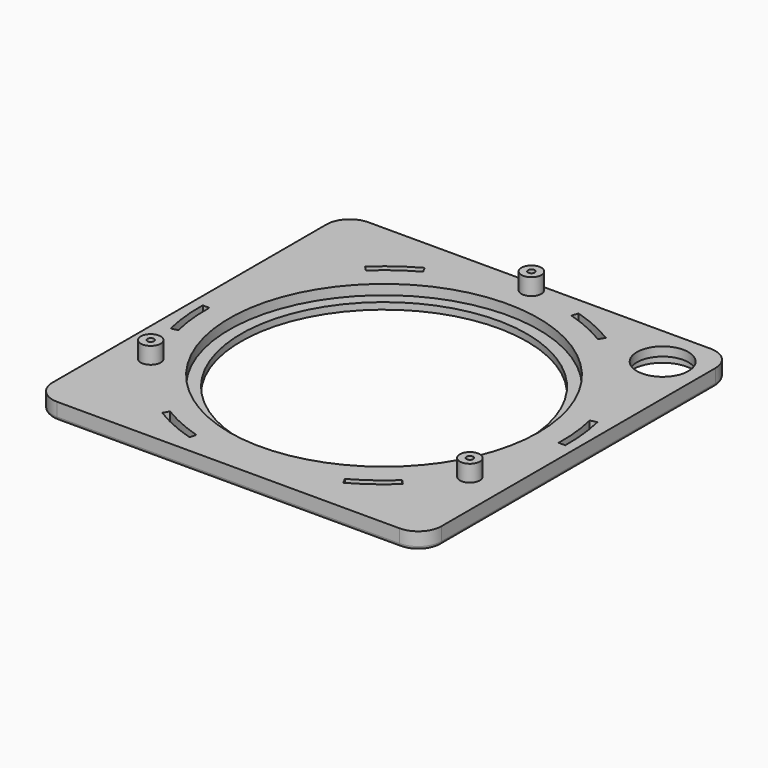
from build123d import *

# Parameters (mm, degrees)
F1_DEPTH  = 5
F2_R      = 43
F3_DEPTH  = 5.001
F4_R      = 46.5
F5_DEPTH  = 3
F7_R      = 3
F7_R_2    = 1
F8_DEPTH  = 5
F10_DEPTH = 5.001
F14_R     = 1
F15_R     = 9
F16_DEPTH = 2.3
F17_R     = 7.75
F18_DEPTH = 7.701


with BuildPart() as f1:
    # F0 (on Top) → F1 (new body)
    with BuildSketch(Plane.XY):
        with BuildLine():
            ThreePointArc((58.5, 51.5), (56.4497474683, 56.4497474683), (51.5, 58.5))
            Line((51.5, 58.5), (-51.5, 58.5))
            ThreePointArc((-51.5, 58.5), (-56.4497474683, 56.4497474683), (-58.5, 51.5))
            Line((-58.5, 51.5), (-58.5, -51.5))
            ThreePointArc((-58.5, -51.5), (-56.4497474683, -56.4497474683), (-51.5, -58.5))
            Line((-51.5, -58.5), (51.5, -58.5))
            ThreePointArc((51.5, -58.5), (56.4497474683, -56.4497474683), (58.5, -51.5))
            Line((58.5, -51.5), (58.5, 51.5))
        make_face()
    extrude(amount=F1_DEPTH)

    # F2 (on face) → F3 (cut, through all)
    with BuildSketch(Plane.XY.offset(5)):
        Circle(F2_R)
    extrude(amount=-F3_DEPTH, mode=Mode.SUBTRACT)

    # F4 (on face) → F5 (cut)
    with BuildSketch(Plane.XY.offset(5)):
        Circle(F4_R)
    extrude(amount=-F5_DEPTH, mode=Mode.SUBTRACT)

    # F7 (on face) → F8 (join)
    with BuildSketch(Plane.XY.offset(5)):
        with Locations((0, 55.426)):
            Circle(F7_R)
        with Locations((0, 55.426)):
            Circle(F7_R_2, mode=Mode.SUBTRACT)
        with Locations((-48.0003240302, -27.713)):
            Circle(F7_R)
        with Locations((-48.0003240302, -27.713)):
            Circle(F7_R_2, mode=Mode.SUBTRACT)
        with Locations((48.0003240302, -27.713)):
            Circle(F7_R)
        with Locations((48.0003240302, -27.713)):
            Circle(F7_R_2, mode=Mode.SUBTRACT)
    extrude(amount=F8_DEPTH)

    # F9 (on face) → F10 (cut, through all)
    with BuildSketch(Plane.XY.offset(5)):
        with BuildLine():
            Line((27.7520475957, 45.7391938522), (28.7895073189, 47.4490702579))
            ThreePointArc((28.7895073189, 47.4490702579), (22.5750330476, 50.7012611569), (16, 53.1436731888))
            Line((16, 53.1436731888), (15.4234234234, 51.2285858667))
            ThreePointArc((15.4234234234, 51.2285858667), (21.7615183432, 48.8741886828), (27.7520475957, 45.7391938522))
        make_face()
        with BuildLine():
            Line((-25.7352800268, 46.903575151), (-26.6973465699, 48.6569798295))
            ThreePointArc((-26.6973465699, 48.6569798295), (-32.621063642, 44.901182689), (-38.0237710319, 40.428243055))
            Line((-38.0237710319, 40.428243055), (-36.6535450488, 38.9713694314))
            ThreePointArc((-36.6535450488, 38.9713694314), (-31.445529817, 43.2831220515), (-25.7352800268, 46.903575151))
        make_face()
        with BuildLine():
            Line((-53.4873276224, 1.1643812988), (-55.4868538887, 1.2079095716))
            ThreePointArc((-55.4868538887, 1.2079095716), (-55.1960966896, -5.8000784679), (-54.0237710319, -12.7154301339))
            Line((-54.0237710319, -12.7154301339), (-52.0769684722, -12.2572164353))
            ThreePointArc((-52.0769684722, -12.2572164353), (-53.2070481602, -5.5910666312), (-53.4873276224, 1.1643812988))
        make_face()
        with BuildLine():
            Line((-27.7520475957, -45.7391938522), (-28.7895073189, -47.4490702579))
            ThreePointArc((-28.7895073189, -47.4490702579), (-22.5750330476, -50.7012611569), (-16, -53.1436731888))
            Line((-16, -53.1436731888), (-15.4234234234, -51.2285858667))
            ThreePointArc((-15.4234234234, -51.2285858667), (-21.7615183432, -48.8741886828), (-27.7520475957, -45.7391938522))
        make_face()
        with BuildLine():
            Line((25.7352800268, -46.903575151), (26.6973465699, -48.6569798295))
            ThreePointArc((26.6973465699, -48.6569798295), (32.621063642, -44.901182689), (38.0237710319, -40.428243055))
            Line((38.0237710319, -40.428243055), (36.6535450488, -38.9713694314))
            ThreePointArc((36.6535450488, -38.9713694314), (31.445529817, -43.2831220515), (25.7352800268, -46.903575151))
        make_face()
        with BuildLine():
            Line((53.4873276224, -1.1643812988), (55.4868538887, -1.2079095716))
            ThreePointArc((55.4868538887, -1.2079095716), (55.1960966896, 5.8000784679), (54.0237710319, 12.7154301339))
            Line((54.0237710319, 12.7154301339), (52.0769684722, 12.2572164353))
            ThreePointArc((52.0769684722, 12.2572164353), (53.2070481602, 5.5910666312), (53.4873276224, -1.1643812988))
        make_face()
    extrude(amount=-F10_DEPTH, mode=Mode.SUBTRACT)

    # F13: sweep along a path in F11
    with BuildLine(Plane(origin=(0, 0, 0), x_dir=(1, 0, 0), z_dir=(0, 0, -1))) as f13_path:
        CenterArc((0, 0), 54.5, 0, 360)
    # F12 (on Right) → F13 (sweep, cut)
    with BuildSketch(Plane.YZ):
        with BuildLine():
            add(Edge.make_bspline(
                [(-53.5, 0), (-53.5, 3.4641016151), (-55, 1.7320508076), (-56.5, 0), (-55, -1.7320508076), (-53.5, -3.4641016151), (-53.5, 0)],
                knots=[4.7123889804, 4.7123889804, 4.7123889804, 6.8067840828, 6.8067840828, 8.9011791852, 8.9011791852, 10.9955742876, 10.9955742876, 10.9955742876], degree=2, weights=[1, 0.5, 1, 0.5, 1, 0.5, 1]))
        make_face()
    sweep(path=f13_path.line, mode=Mode.SUBTRACT)

    # F14
    f14_edges = [f1.edges().sort_by_distance(p)[0] for p in [
        (-58.5, 0, 0),
        (-56.449747, 56.449747, 0),
        (0, 58.5, 0),
        (0, -58.5, 0),
        (-56.449747, -56.449747, 0),
        (56.449747, 56.449747, 0),
        (58.5, 0, 0),
        (56.449747, -56.449747, 0),
    ]]
    fillet(f14_edges, radius=F14_R)

    # F15 (on face) → F16 (cut)
    with BuildSketch(Plane(origin=(0, 0, 0), x_dir=(1, 0, 0), z_dir=(0, 0, -1))):
        with Locations((46.7543378472, -46.3366284966)):
            Circle(F15_R)
    extrude(amount=-F16_DEPTH, mode=Mode.SUBTRACT)

    # F17 (on face) → F18 (cut, through all)
    with BuildSketch(Plane(origin=(0, 0, 2.3), x_dir=(1, 0, 0), z_dir=(0, 0, -1))):
        with Locations((46.7543378472, -46.3366284966)):
            Circle(F17_R)
    extrude(amount=-F18_DEPTH, mode=Mode.SUBTRACT)


solid = f1.part
